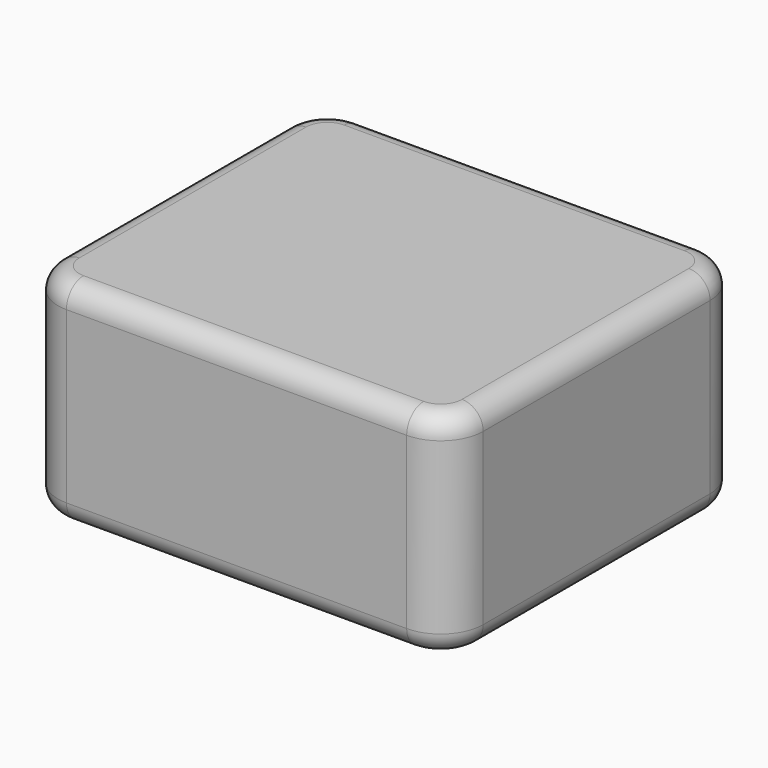
from build123d import *

# Parameters (mm, degrees)
F0_W     = 6
F0_H     = 5.2
F1_DEPTH = 3
F2_R     = 0.6
F3_R     = 0.3


with BuildPart() as f1:
    # F0 (on Top) → F1 (new body)
    with BuildSketch(Plane.XY):
        with Locations((3, 2.6)):
            Rectangle(F0_W, F0_H)
    extrude(amount=F1_DEPTH)

    # F2
    f2_edges = [f1.edges().sort_by_distance(p)[0] for p in [
        (6, 5.2, 1.5),
        (6, 0, 1.5),
        (0, 0, 1.5),
        (0, 5.2, 1.5),
    ]]
    fillet(f2_edges, radius=F2_R)

    # F3
    f3_edges = [f1.edges().sort_by_distance(p)[0] for p in [
        (0, 2.6, 3),
        (0.175736, 5.024264, 3),
        (0.175736, 0.175736, 3),
        (3, 5.2, 3),
        (3, 0, 3),
        (5.824264, 5.024264, 3),
        (5.824264, 0.175736, 3),
        (6, 2.6, 3),
        (0, 2.6, 0),
        (0.175736, 5.024264, 0),
        (0.175736, 0.175736, 0),
        (3, 5.2, 0),
        (3, 0, 0),
        (5.824264, 5.024264, 0),
        (5.824264, 0.175736, 0),
        (6, 2.6, 0),
    ]]
    fillet(f3_edges, radius=F3_R)


solid = f1.part
